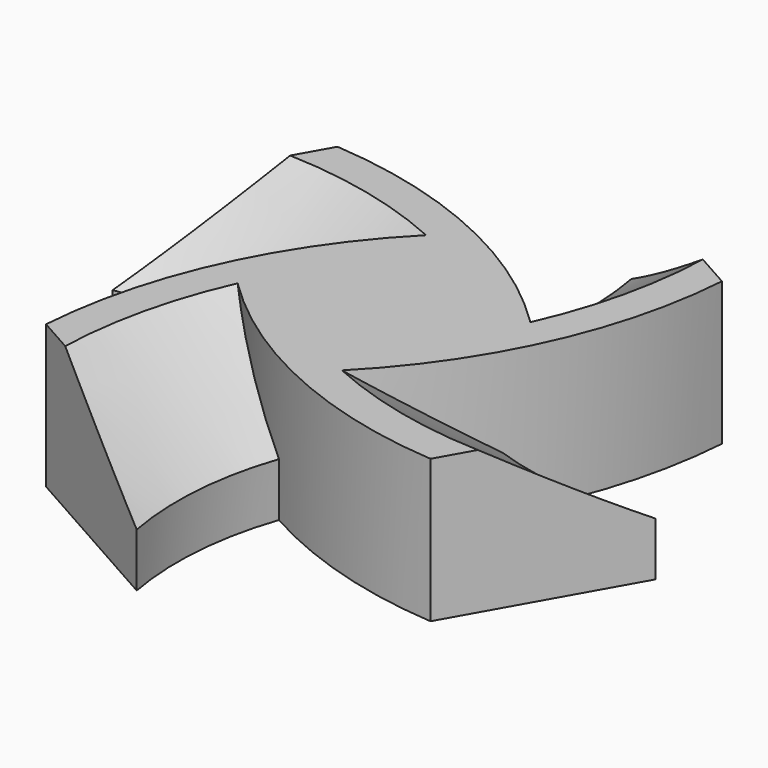
from build123d import *

# Parameters (mm, degrees)
F1_DEPTH   = 10.16
F2_SIZE2   = 8.89
F2_SIZE    = 6.35
F2_2_SIZE2 = 8.89
F2_2_SIZE  = 6.35
F2_3_SIZE2 = 8.89
F2_3_SIZE  = 6.35
F2_4_SIZE2 = 8.89
F2_4_SIZE  = 6.35


with BuildPart() as f1:
    # F0 (on Top) → F1 (new body)
    with BuildSketch(Plane.XY):
        with BuildLine():
            ThreePointArc((8.7829506919, -0.4383031513), (8.1984738627, -0.2271154175), (7.62, 0))
            ThreePointArc((7.62, 0), (7.3212709923, -2.1126739117), (6.4485062842, -4.0597003218))
            ThreePointArc((6.4485062842, -4.0597003218), (7.6729486494, -2.2858873029), (8.7829506919, -0.4383031513))
        make_face()
        with BuildLine():
            ThreePointArc((4.0597003218, 6.4485062842), (6.670806415, 3.6830343161), (7.62, 0))
            ThreePointArc((7.62, 0), (8.1984738627, -0.2271154175), (8.7829506919, -0.4383031513))
            ThreePointArc((8.7829506919, -0.4383031513), (11.6797251248, 6.4085522926), (13.0247462226, 13.7202996782))
            Line((13.0247462226, 13.7202996782), (1.3079377533, 20.32))
            ThreePointArc((1.3079377533, 20.32), (1.6208295824, 14.4951148577), (0.4383031513, 8.7829506919))
            ThreePointArc((0.4383031513, 8.7829506919), (2.2858873029, 7.6729486494), (4.0597003218, 6.4485062842))
        make_face()
        with BuildLine():
            ThreePointArc((0, 7.62), (2.1126739117, 7.3212709923), (4.0597003218, 6.4485062842))
            ThreePointArc((4.0597003218, 6.4485062842), (2.2858873029, 7.6729486494), (0.4383031513, 8.7829506919))
            ThreePointArc((0.4383031513, 8.7829506919), (0.2271154175, 8.1984738627), (0, 7.62))
        make_face()
        with BuildLine():
            ThreePointArc((8.7829506919, -0.4383031513), (7.6729486494, -2.2858873029), (6.4485062842, -4.0597003218))
            ThreePointArc((6.4485062842, -4.0597003218), (3.6830343161, -6.670806415), (0, -7.62))
            ThreePointArc((0, -7.62), (-0.2271154175, -8.1984738627), (-0.4383031513, -8.7829506919))
            ThreePointArc((-0.4383031513, -8.7829506919), (6.4085522926, -11.6797251248), (13.7202996782, -13.0247462226))
            Line((13.7202996782, -13.0247462226), (20.32, -1.3079377533))
            ThreePointArc((20.32, -1.3079377533), (14.4951148577, -1.6208295824), (8.7829506919, -0.4383031513))
        make_face()
        with BuildLine():
            ThreePointArc((-6.4485062842, 4.0597003218), (-3.6830343161, 6.670806415), (0, 7.62))
            ThreePointArc((0, 7.62), (0.2271154175, 8.1984738627), (0.4383031513, 8.7829506919))
            ThreePointArc((0.4383031513, 8.7829506919), (-6.4085522926, 11.6797251248), (-13.7202996782, 13.0247462226))
            Line((-13.7202996782, 13.0247462226), (-20.32, 1.3079377533))
            ThreePointArc((-20.32, 1.3079377533), (-14.4951148577, 1.6208295824), (-8.7829506919, 0.4383031513))
            ThreePointArc((-8.7829506919, 0.4383031513), (-7.6729486494, 2.2858873029), (-6.4485062842, 4.0597003218))
        make_face()
        with BuildLine():
            ThreePointArc((-0.4383031513, -8.7829506919), (-0.2271154175, -8.1984738627), (0, -7.62))
            ThreePointArc((0, -7.62), (-2.1126739117, -7.3212709923), (-4.0597003218, -6.4485062842))
            ThreePointArc((-4.0597003218, -6.4485062842), (-2.2858873029, -7.6729486494), (-0.4383031513, -8.7829506919))
        make_face()
        with BuildLine():
            ThreePointArc((-7.62, 0), (-7.3212709923, 2.1126739117), (-6.4485062842, 4.0597003218))
            ThreePointArc((-6.4485062842, 4.0597003218), (-7.6729486494, 2.2858873029), (-8.7829506919, 0.4383031513))
            ThreePointArc((-8.7829506919, 0.4383031513), (-8.1984738627, 0.2271154175), (-7.62, 0))
        make_face()
        with BuildLine():
            ThreePointArc((-0.4383031513, -8.7829506919), (-2.2858873029, -7.6729486494), (-4.0597003218, -6.4485062842))
            ThreePointArc((-4.0597003218, -6.4485062842), (-6.670806415, -3.6830343161), (-7.62, 0))
            ThreePointArc((-7.62, 0), (-8.1984738627, 0.2271154175), (-8.7829506919, 0.4383031513))
            ThreePointArc((-8.7829506919, 0.4383031513), (-11.6797251248, -6.4085522926), (-13.0247462226, -13.7202996782))
            Line((-13.0247462226, -13.7202996782), (-1.3079377533, -20.32))
            ThreePointArc((-1.3079377533, -20.32), (-1.6208295824, -14.4951148577), (-0.4383031513, -8.7829506919))
        make_face()
        with BuildLine():
            ThreePointArc((6.4485062842, -4.0597003218), (7.3212709923, -2.1126739117), (7.62, 0))
            ThreePointArc((7.62, 0), (6.670806415, 3.6830343161), (4.0597003218, 6.4485062842))
            ThreePointArc((4.0597003218, 6.4485062842), (2.1126739117, 7.3212709923), (0, 7.62))
            ThreePointArc((0, 7.62), (-3.6830343161, 6.670806415), (-6.4485062842, 4.0597003218))
            ThreePointArc((-6.4485062842, 4.0597003218), (-7.3212709923, 2.1126739117), (-7.62, 0))
            ThreePointArc((-7.62, 0), (-6.670806415, -3.6830343161), (-4.0597003218, -6.4485062842))
            ThreePointArc((-4.0597003218, -6.4485062842), (-2.1126739117, -7.3212709923), (0, -7.62))
            ThreePointArc((0, -7.62), (3.6830343161, -6.670806415), (6.4485062842, -4.0597003218))
        make_face()
    extrude(amount=F1_DEPTH)

    # F2
    f2_edges = [f1.edges().sort_by_distance(p)[0] for p in [
        (1.62083, 14.495115, 10.16),
    ]]
    f2_side = f1.faces().sort_by_distance((1.62083, 14.495115, 5.08))[0]
    chamfer(f2_edges, length=F2_SIZE, length2=F2_SIZE2, reference=f2_side)

    # F2#2
    f2_2_edges = [f1.edges().sort_by_distance(p)[0] for p in [
        (-14.495115, 1.62083, 10.16),
    ]]
    f2_2_side = f1.faces().sort_by_distance((-14.495115, 1.62083, 5.08))[0]
    chamfer(f2_2_edges, length=F2_2_SIZE, length2=F2_2_SIZE2, reference=f2_2_side)

    # F2#3
    f2_3_edges = [f1.edges().sort_by_distance(p)[0] for p in [
        (-1.62083, -14.495115, 10.16),
    ]]
    f2_3_side = f1.faces().sort_by_distance((-1.62083, -14.495115, 5.08))[0]
    chamfer(f2_3_edges, length=F2_3_SIZE, length2=F2_3_SIZE2, reference=f2_3_side)

    # F2#4
    f2_4_edges = [f1.edges().sort_by_distance(p)[0] for p in [
        (14.495115, -1.62083, 10.16),
    ]]
    f2_4_side = f1.faces().sort_by_distance((14.495115, -1.62083, 5.08))[0]
    chamfer(f2_4_edges, length=F2_4_SIZE, length2=F2_4_SIZE2, reference=f2_4_side)


solid = f1.part
